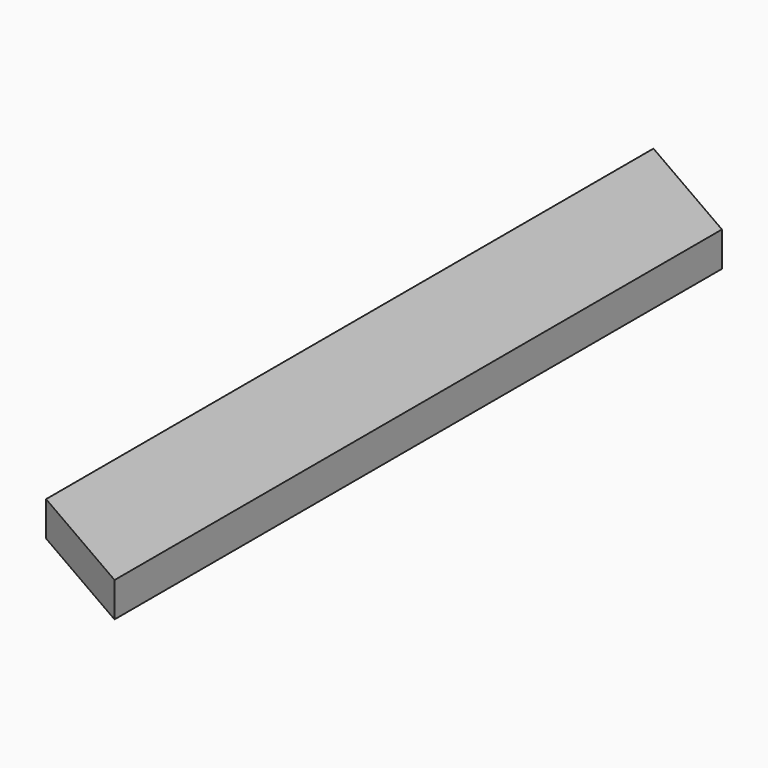
from build123d import *

# Parameters (mm, degrees)
F0_W     = 139.7
F0_H     = 38.1
F1_DEPTH = 914.4
F3_DEPTH = 50.8
F5_DEPTH = 50.8


with BuildPart() as f1:
    # F0 (on Front) → F1 (new body)
    with BuildSketch(Plane.XZ):
        with Locations((69.85, 19.05)):
            Rectangle(F0_W, F0_H)
    extrude(amount=F1_DEPTH)

    # F2 (on Top) → F3 (cut)
    with BuildSketch(Plane.XY):
        Polygon((152.4, 0), (0, 0), (152.4, -87.988181), align=None)
    extrude(amount=F3_DEPTH, mode=Mode.SUBTRACT)

    # F4 (on Top) → F5 (cut)
    with BuildSketch(Plane.XY):
        Polygon((139.7, -914.4), (-12.7, -826.411819), (-12.7, -914.4), align=None)
    extrude(amount=F5_DEPTH, mode=Mode.SUBTRACT)


solid = f1.part
